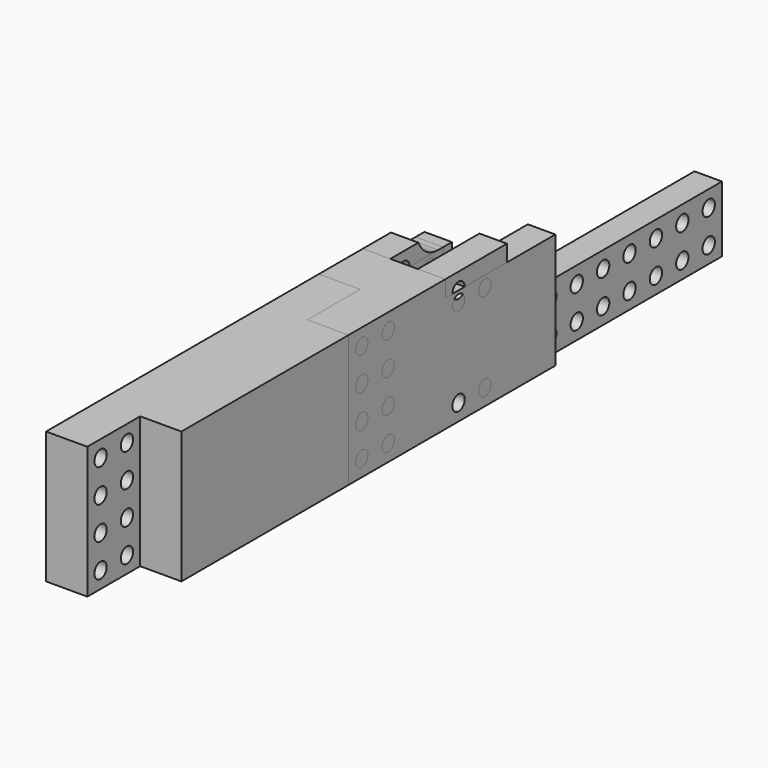
from build123d import *

# Parameters (mm, degrees)
PAD_DEPTH            = 24
SKETCH001_R          = 1.4
POCKET_DEPTH         = 7.506
POCKET_DEPTH_BACK    = -7.506
POCKET001_DEPTH      = 7.506
PAD001_DEPTH         = 24
SKETCH004_R          = 1.4
SKETCH004_W          = 25
SKETCH004_H          = 6
POCKET002_DEPTH      = 7.506
POCKET002_DEPTH_BACK = -7.506
SKETCH005_W          = 66
SKETCH005_H          = 12
SKETCH005_R          = 1.4
PAD002_DEPTH         = 5


with BuildPart() as obj1:
    # Sketch → Pad (new body)
    with BuildSketch(Plane.XY):
        Polygon((-2.505, 0), (-2.505, 14), (-7.505, 14), (-7.505, -72), (0, -72), (0, -60), (7.505, -60), (7.505, 14), (2.505, 14), (2.505, 0), align=None)
    extrude(amount=PAD_DEPTH)

    # Sketch001 → Pocket (cut, two sides)
    with BuildSketch(Plane.YZ) as pocket_sk:
        with Locations((3, 9)):
            Circle(SKETCH001_R)
        with Locations((3, 3)):
            Circle(SKETCH001_R)
        with Locations((-69, 3)):
            Circle(SKETCH001_R)
        with Locations((-69, 9)):
            Circle(SKETCH001_R)
        with Locations((3, 15)):
            Circle(SKETCH001_R)
        with Locations((-69, 15)):
            Circle(SKETCH001_R)
        with Locations((-69, 21)):
            Circle(SKETCH001_R)
        with Locations((3, 21)):
            Circle(SKETCH001_R)
        with Locations((-63, 21)):
            Circle(SKETCH001_R)
        with Locations((-63, 15)):
            Circle(SKETCH001_R)
        with Locations((-63, 9)):
            Circle(SKETCH001_R)
        with Locations((-63, 3)):
            Circle(SKETCH001_R)
    extrude(amount=-POCKET_DEPTH, mode=Mode.SUBTRACT)
    extrude(pocket_sk.sketch, amount=-POCKET_DEPTH_BACK, mode=Mode.SUBTRACT)

    # Sketch002 → Pocket001 (cut, through all)
    with BuildSketch(Plane.YZ):
        with BuildLine():
            ThreePointArc((10.9, 3), (7.435177, 1.564823), (6, -1.9))
            Line((6, -10.46395), (6, -1.9))
            Line((30.665041, -10.46395), (6, -10.46395))
            Line((30.665041, 34.46395), (30.665041, -10.46395))
            Line((30.665041, 34.46395), (6, 34.46395))
            Line((6, 34.46395), (6, 25.9))
            ThreePointArc((6, 25.9), (7.435177, 22.435177), (10.9, 21))
            Line((25.621387, 21), (10.9, 21))
            Line((25.621387, 21), (25.621387, 3))
            Line((25.621387, 3), (10.9, 3))
        make_face()
    extrude(amount=-POCKET001_DEPTH, mode=Mode.SUBTRACT)


with BuildPart() as obj2:
    # Sketch003 → Pad001 (new body)
    with BuildSketch(Plane.XY):
        Polygon((-2.505, 0), (2.505, 0), (2.505, 25), (7.505, 25), (7.505, -22), (0, -22), (0, -10), (-7.505, -10), (-7.505, 12), (-2.505, 12), align=None)
    extrude(amount=PAD001_DEPTH)

    # Sketch004 → Pocket002 (cut, two sides)
    with BuildSketch(Plane.YZ) as pocket002_sk:
        with Locations((3, 3)):
            Circle(SKETCH004_R)
        with Locations((9, 3)):
            Circle(SKETCH004_R)
        with Locations((-13, 21)):
            Circle(SKETCH004_R)
        with Locations((-13, 15)):
            Circle(SKETCH004_R)
        with Locations((-13, 9)):
            Circle(SKETCH004_R)
        with Locations((-13, 3)):
            Circle(SKETCH004_R)
        with Locations((3, 19)):
            Circle(SKETCH004_R)
        with Locations((9, 19)):
            Circle(SKETCH004_R)
        with Locations((-19, 21)):
            Circle(SKETCH004_R)
        with Locations((-19, 15)):
            Circle(SKETCH004_R)
        with Locations((-19, 9)):
            Circle(SKETCH004_R)
        with Locations((-19, 3)):
            Circle(SKETCH004_R)
        with Locations((12.5, 24)):
            Rectangle(SKETCH004_W, SKETCH004_H)
    extrude(amount=-POCKET002_DEPTH, mode=Mode.SUBTRACT)
    extrude(pocket002_sk.sketch, amount=-POCKET002_DEPTH_BACK, mode=Mode.SUBTRACT)


with BuildPart() as obj3:
    # Sketch005 → Pad002 (new body)
    with BuildSketch(Plane.YZ):
        with Locations((33, 6)):
            Rectangle(SKETCH005_W, SKETCH005_H)
        with Locations((3, 9)):
            Circle(SKETCH005_R, mode=Mode.SUBTRACT)
        with Locations((9, 9)):
            Circle(SKETCH005_R, mode=Mode.SUBTRACT)
        with Locations((15, 9)):
            Circle(SKETCH005_R, mode=Mode.SUBTRACT)
        with Locations((21, 9)):
            Circle(SKETCH005_R, mode=Mode.SUBTRACT)
        with Locations((27, 9)):
            Circle(SKETCH005_R, mode=Mode.SUBTRACT)
        with Locations((33, 9)):
            Circle(SKETCH005_R, mode=Mode.SUBTRACT)
        with Locations((39, 9)):
            Circle(SKETCH005_R, mode=Mode.SUBTRACT)
        with Locations((45, 9)):
            Circle(SKETCH005_R, mode=Mode.SUBTRACT)
        with Locations((51, 9)):
            Circle(SKETCH005_R, mode=Mode.SUBTRACT)
        with Locations((57, 9)):
            Circle(SKETCH005_R, mode=Mode.SUBTRACT)
        with Locations((63, 9)):
            Circle(SKETCH005_R, mode=Mode.SUBTRACT)
        with Locations((3, 3)):
            Circle(SKETCH005_R, mode=Mode.SUBTRACT)
        with Locations((9, 3)):
            Circle(SKETCH005_R, mode=Mode.SUBTRACT)
        with Locations((15, 3)):
            Circle(SKETCH005_R, mode=Mode.SUBTRACT)
        with Locations((21, 3)):
            Circle(SKETCH005_R, mode=Mode.SUBTRACT)
        with Locations((27, 3)):
            Circle(SKETCH005_R, mode=Mode.SUBTRACT)
        with Locations((33, 3)):
            Circle(SKETCH005_R, mode=Mode.SUBTRACT)
        with Locations((39, 3)):
            Circle(SKETCH005_R, mode=Mode.SUBTRACT)
        with Locations((45, 3)):
            Circle(SKETCH005_R, mode=Mode.SUBTRACT)
        with Locations((51, 3)):
            Circle(SKETCH005_R, mode=Mode.SUBTRACT)
        with Locations((57, 3)):
            Circle(SKETCH005_R, mode=Mode.SUBTRACT)
        with Locations((63, 3)):
            Circle(SKETCH005_R, mode=Mode.SUBTRACT)
    extrude(amount=PAD002_DEPTH)


solid = Compound([obj1.part, obj2.part, obj3.part])
